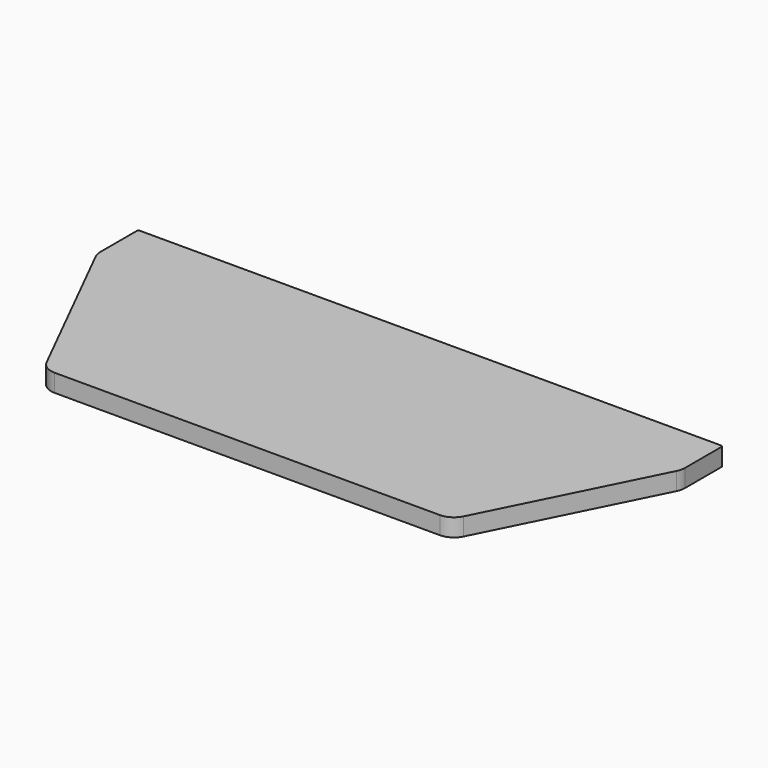
from build123d import *

# Parameters (mm, degrees)
F1_DEPTH = 50.8
F2_R     = 50.8
F3_R     = 5.08


with BuildPart() as f1:
    # F0 (on Top) → F1 (new body)
    with BuildSketch(Plane.XY):
        Polygon((836.6125, 0), (-836.6125, 0), (-836.6125, -147.6375), (-582.6125, -655.6375), (582.6125, -655.6375), (836.6125, -147.6375), align=None)
    extrude(amount=-F1_DEPTH)

    # F2
    f2_edges = [f1.edges().sort_by_distance(p)[0] for p in [
        (-836.6125, -147.6375, -25.4),
        (-582.6125, -655.6375, -25.4),
        (582.6125, -655.6375, -25.4),
        (836.6125, -147.6375, -25.4),
    ]]
    fillet(f2_edges, radius=F2_R)

    # F3
    f3_edges = [f1.edges().sort_by_distance(p)[0] for p in [
        (836.6125, 0, -25.4),
        (-836.6125, 0, -25.4),
    ]]
    fillet(f3_edges, radius=F3_R)


solid = f1.part
